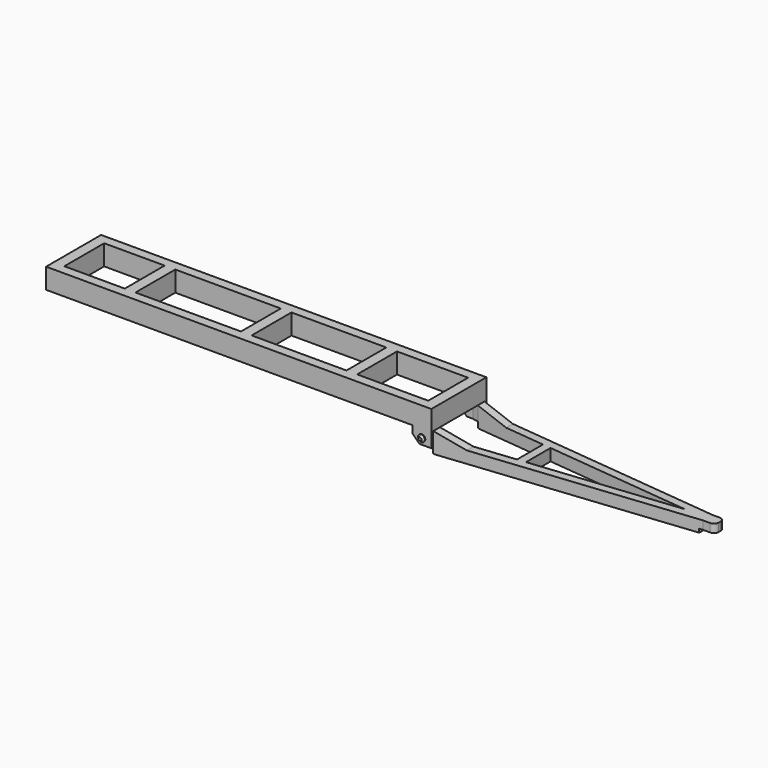
from build123d import *

# Parameters (mm, degrees)
F1_DEPTH  = 1.72
F3_DEPTH  = 0.8
F5_DEPTH  = 2
F7_DEPTH  = 2.901
F8_R      = 0.2889302174
F9_DEPTH  = 0.2
F10_SIZE  = 0.15
F12_W     = 1.3
F12_H     = 0.3
F13_DEPTH = 6.001
F14_R     = 0.4
F15_R     = 0.35
F16_DEPTH = 0.3


with BuildPart() as f1:
    # F0 (on Top) → F1 (new body)
    with BuildSketch(Plane.XY):
        Polygon((0.9, 0), (0, 0), (0, -2.9), (32.5, -2.9), (32.5, 0), (31.6, 0), (31.6, -2.1), (25.6, -2.1), (25.6, 0), (24.7, 0), (24.7, -2.1), (16.7, -2.1), (16.7, 0), (15.8, 0), (15.8, -2.1), (6.9, -2.1), (6.9, 0), (6, 0), (6, -2.1), (0.9, -2.1), align=None)
    extrude(amount=F1_DEPTH)

    # F2 (on face) → F3 (join, through all)
    with BuildSketch(Plane.XZ.offset(2.9)):
        Polygon((30.9, 0), (30.9, -0.6), (32, -1.7), (32.5, -1.7), (32.5, 0), align=None)
    extrude(amount=-F3_DEPTH)

    # F4 (on face) → F5 (join)
    with BuildSketch(Plane(origin=(0, 0, -1.7), x_dir=(1, 0, 0), z_dir=(0, 0, -1))):
        Polygon((53.5, 0.5), (32.5, 2.7), (32.5, 2.1), (32, 2.1), (32.5, 1.9961692123), (38.5, 1.3675977837), (38.5, 0), (39.2, 0), (39.2, 1.2942644504), (51.5543424806, 0), (54.5, 0), (54.5, 0.5), align=None)
    extrude(amount=-F5_DEPTH)

    # F6 (on face) → F7 (cut, through all)
    with BuildSketch(Plane.XZ.offset(2.9)):
        Polygon((54.5, 0.3), (32.5, 0.3), (32.5, 0), (35.1124355653, -0.7), (54.5, -0.7), align=None)
        Polygon((32.5, -1.6719941439), (32.5, -1.2), (31.5, -1.2), (32, -1.7), (32.5, -1.7), (32.6045192778, -1.7), align=None)
    extrude(amount=-F7_DEPTH, mode=Mode.SUBTRACT)

    # F8 (on face) → F9 (join)
    with BuildSketch(Plane.XZ.offset(2.9)):
        with Locations((31.7, -0.7)):
            Circle(F8_R)
    extrude(amount=F9_DEPTH)

    # F10
    f10_edges = [f1.edges().sort_by_distance(p)[0] for p in [
        (31.41107, -3.1, -0.7),
    ]]
    chamfer(f10_edges, length=F10_SIZE)

    # F11: F1 across face


with BuildPart() as f1_1:
    add(f1.part)
    add(f1.part.mirror(Plane(origin=(16.25, 0, 0.86), x_dir=(-1, 0, 0), z_dir=(0, 1, 0))))

    # F12 (on face) → F13 (cut, through all)
    with BuildSketch(Plane(origin=(0, 2.9, 0), x_dir=(-1, 0, 0), z_dir=(0, 1, 0))):
        with Locations((-53.85, -1.55)):
            Rectangle(F12_W, F12_H)
    extrude(amount=-F13_DEPTH, mode=Mode.SUBTRACT)

    # F14
    f14_edges = [f1_1.edges().sort_by_distance(p)[0] for p in [
        (54.5, 0.5, -1.05),
        (54.5, -0.5, -1.05),
    ]]
    fillet(f14_edges, radius=F14_R)

    # F15 (on face) → F16 (cut)
    with BuildSketch(Plane(origin=(0, 0, -1.4), x_dir=(1, 0, 0), z_dir=(0, 0, -1))):
        with Locations((54, 0)):
            Circle(F15_R)
    extrude(amount=-F16_DEPTH, mode=Mode.SUBTRACT)


solid = f1_1.part
